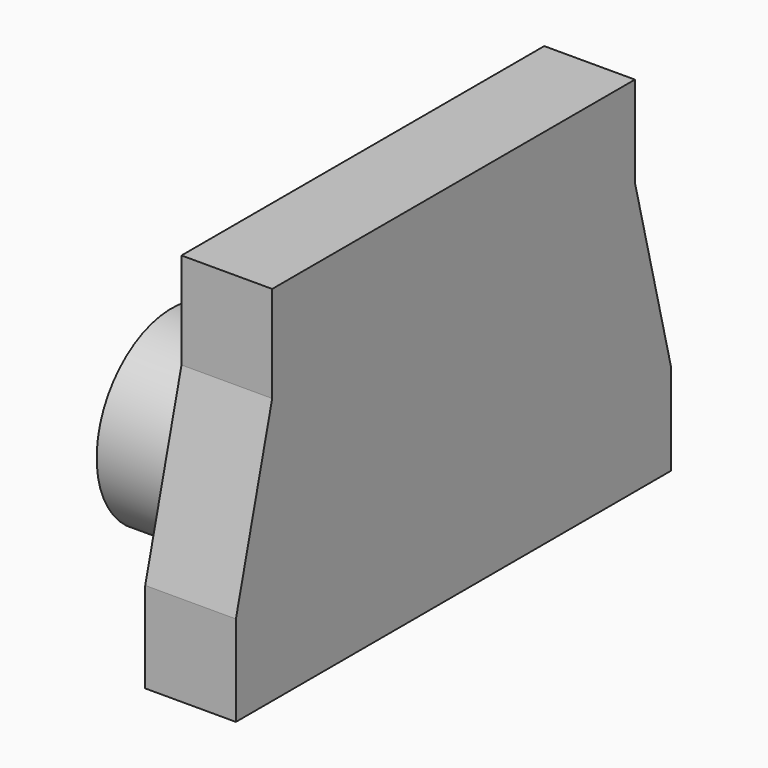
from build123d import *

# Parameters (mm, degrees)
F1_DEPTH = 25.4
F2_R     = 26.2509
F3_DEPTH = 25.4


with BuildPart() as f1:
    # F0 (on Right) → F1 (new body)
    with BuildSketch(Plane.YZ):
        Polygon((-76.2, -42.571535), (76.2, -42.571535), (76.2, -17.171535), (63.5, -17.171535), (-63.5, -17.171535), (-76.2, -17.171535), align=None)
        Polygon((63.5, -17.171535), (76.2, -17.171535), (63.5, 33.628465), (63.5, 59.028465), (-63.5, 59.028465), (-63.5, 32.015353), (-76.2, -17.171535), (-63.5, -17.171535), align=None)
    extrude(amount=F1_DEPTH)

    # F2 (on Right) → F3 (join)
    with BuildSketch(Plane.YZ):
        with Locations((35.200721, 0)):
            Circle(F2_R)
        with Locations((-35.200721, 0)):
            Circle(F2_R)
    extrude(amount=-F3_DEPTH)


solid = f1.part
